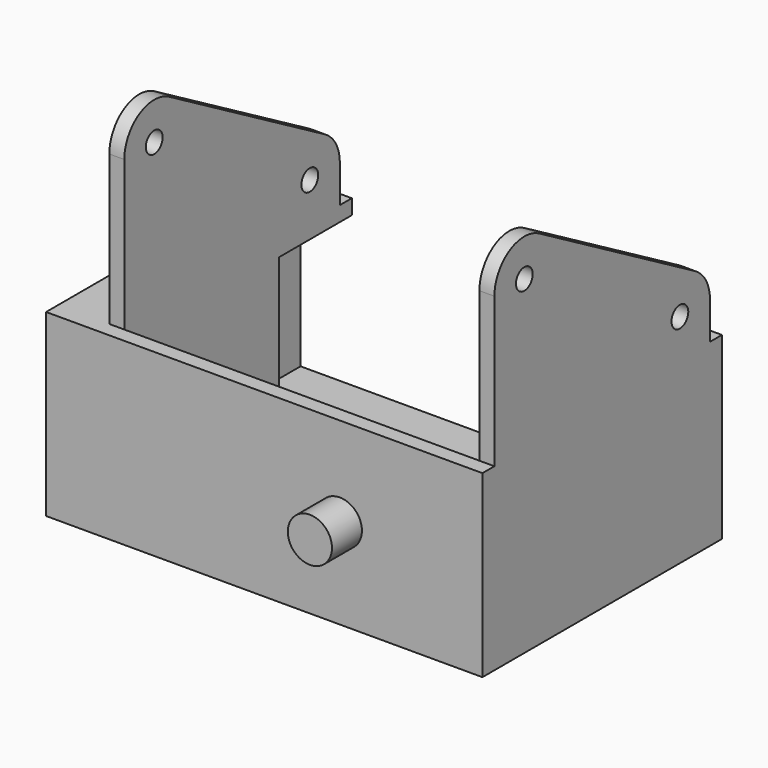
from build123d import *

# Parameters (mm, degrees)
SKETCH_W        = 54.3
SKETCH_H        = 38
PAD_DEPTH       = 2
SKETCH001_W     = 54.3
SKETCH001_H     = 2
PAD001_DEPTH    = 22
SKETCH002_R     = 2.95
PAD002_DEPTH    = 5
SKETCH003_W     = 40
SKETCH003_H     = 22
PAD003_DEPTH    = 2
SKETCH004_W     = 40
SKETCH004_H     = 22
PAD004_DEPTH    = 2
SKETCH005_W     = 6.85
SKETCH005_H     = 15
PAD005_DEPTH    = 8
SKETCH006_R     = 1.4
POCKET_DEPTH    = 15
FILLET_R        = 3
FILLET001_R     = 2
SKETCH007_W     = 6.85
SKETCH007_H     = 25.8
PAD006_DEPTH    = 20
SKETCH008_R     = 1.4
POCKET001_DEPTH = 15
PAD007_DEPTH    = 2
SKETCH010_R     = 1.4
PAD008_DEPTH    = 2
SKETCH011_R     = 1.4
PAD009_DEPTH    = 2


with BuildPart() as part:
    # Sketch → Pad (new body)
    with BuildSketch(Plane.XY):
        with Locations((27.15, 21)):
            Rectangle(SKETCH_W, SKETCH_H)
    extrude(amount=PAD_DEPTH)

    # Sketch001 → Pad001 (join)
    with BuildSketch(Plane.XY):
        with Locations((27.15, 1)):
            Rectangle(SKETCH001_W, SKETCH001_H)
    extrude(amount=PAD001_DEPTH)

    # Sketch002 → Pad002 (join)
    with BuildSketch(Plane.XZ):
        with Locations((37.25, 12)):
            Circle(SKETCH002_R)
    extrude(amount=PAD002_DEPTH)

    # Sketch003 (on Face2 of Pad002) → Pad003 (join)
    with BuildSketch(Plane(origin=(0, 0, 0), x_dir=(0, -1, 0), z_dir=(-1, 0, 0))):
        with Locations((-20, 11)):
            Rectangle(SKETCH003_W, SKETCH003_H)
    extrude(amount=PAD003_DEPTH)

    # Sketch004 (on Face3 of Pad003) → Pad004 (join)
    with BuildSketch(Plane.YZ.offset(54.3)):
        with Locations((20, 11)):
            Rectangle(SKETCH004_W, SKETCH004_H)
    extrude(amount=PAD004_DEPTH)

    # Sketch005 (on Face5 of Pad004) → Pad005 (join)
    with BuildSketch(Plane.XY.offset(2)):
        with Locations((50.875, 20.3)):
            Rectangle(SKETCH005_W, SKETCH005_H)
    extrude(amount=PAD005_DEPTH)

    # Sketch006 (on Face15 of Pad005) → Pocket (cut)
    with BuildSketch(Plane(origin=(0, 27.8, 0), x_dir=(-1, 0, 0), z_dir=(0, 1, 0))):
        with Locations((-51.3, 7)):
            Circle(SKETCH006_R)
    extrude(amount=-POCKET_DEPTH, mode=Mode.SUBTRACT)

    # Fillet
    fillet_edges = [part.edges().sort_by_distance(p)[0] for p in [
        (47.45, 20.3, 10),
    ]]
    fillet(fillet_edges, radius=FILLET_R)

    # Fillet001
    fillet001_edges = [part.edges().sort_by_distance(p)[0] for p in [
        (52.375, 12.8, 10),
    ]]
    fillet(fillet001_edges, radius=FILLET001_R)

    # Sketch007 (on Face5 of Fillet001) → Pad006 (join)
    with BuildSketch(Plane.XY.offset(2)):
        with Locations((3.425, 14.9)):
            Rectangle(SKETCH007_W, SKETCH007_H)
    extrude(amount=PAD006_DEPTH)

    # Sketch008 (on Face14 of Pad006) → Pocket001 (cut)
    with BuildSketch(Plane(origin=(0, 27.8, 0), x_dir=(-1, 0, 0), z_dir=(0, 1, 0))):
        with Locations((-3, 7)):
            Circle(SKETCH008_R)
        with Locations((-3, 17)):
            Circle(SKETCH008_R)
    extrude(amount=-POCKET001_DEPTH, mode=Mode.SUBTRACT)

    # Sketch009 (on Face21 of Pocket001) → Pad007 (join)
    with BuildSketch(Plane.XY.offset(22)):
        Polygon((54.3, 2), (54.3, 40), (56.3, 40), (56.3, 0), (-2, 0), (-2, 40), (6.85, 40), (6.85, 2), align=None)
    extrude(amount=PAD007_DEPTH)

    # Sketch010 (on Face22 of Pad007) → Pad008 (join)
    with BuildSketch(Plane.YZ.offset(6.85)):
        with BuildLine():
            Line((2, 24), (38, 24))
            Line((38, 29), (38, 24))
            ThreePointArc((38, 29), (37.326745, 31.511013), (35.487593, 33.348396))
            Line((35.487593, 33.348396), (9.497223, 48.331729))
            ThreePointArc((9.497223, 48.331729), (4.498612, 48.329325), (2, 44))
            Line((2, 44), (2, 24))
        make_face()
        with Locations((7, 44)):
            Circle(SKETCH010_R, mode=Mode.SUBTRACT)
        with Locations((32.980762, 29)):
            Circle(SKETCH010_R, mode=Mode.SUBTRACT)
    extrude(amount=-PAD008_DEPTH)

    # Sketch011 (on Face20 of Pad008) → Pad009 (join)
    with BuildSketch(Plane(origin=(54.3, 0, 0), x_dir=(0, -1, 0), z_dir=(-1, 0, 0))):
        with BuildLine():
            Line((-38, 24), (-38, 29))
            ThreePointArc((-35.487593, 33.348396), (-37.326745, 31.511013), (-38, 29))
            Line((-35.487593, 33.348396), (-9.497223, 48.331729))
            ThreePointArc((-2, 44), (-4.498612, 48.329325), (-9.497223, 48.331729))
            Line((-2, 44), (-2, 24))
            Line((-2, 24), (-38, 24))
        make_face()
        with Locations((-7, 44)):
            Circle(SKETCH011_R, mode=Mode.SUBTRACT)
        with Locations((-32.980762, 29)):
            Circle(SKETCH011_R, mode=Mode.SUBTRACT)
    extrude(amount=-PAD009_DEPTH)


solid = part.part
